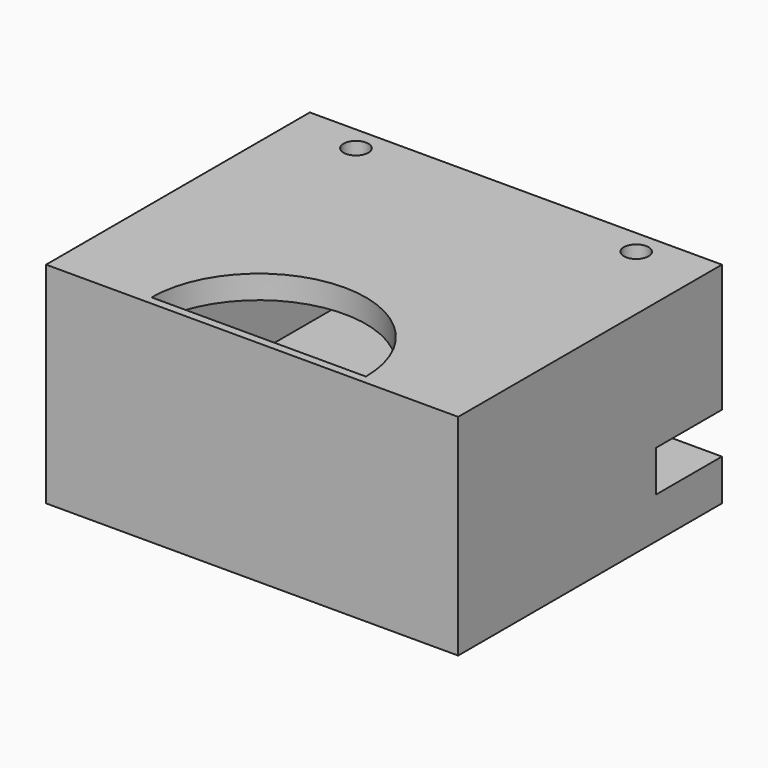
from build123d import *

# Parameters (mm, degrees)
BOX002_W          = 36
BOX002_H          = 16
BOX002_DEPTH      = 41
CYLINDER035_R     = 13
CYLINDER035_DEPTH = 24
CYLINDER003_R     = 1.5
CYLINDER003_DEPTH = 44
CYLINDER002_R     = 1.5
CYLINDER002_DEPTH = 44
PAD009_DEPTH      = 50
SKETCH026_W       = 10
SKETCH026_H       = 27
POCKET006_DEPTH   = 38


with BuildPart() as cubo002:
    # Box002 → Box002 (new body)
    with BuildSketch(Plane(origin=(-19, 1, 45), x_dir=(1, 0, 0), z_dir=(0, 0, 1))):
        with Locations((18, 8)):
            Rectangle(BOX002_W, BOX002_H)
    extrude(amount=BOX002_DEPTH)


with BuildPart() as cut013020:
    # Cylinder035 → Cylinder035 (new body)
    with BuildSketch(Plane(origin=(0, 17, 45), x_dir=(1, 0, 0), z_dir=(0, 0, 1))):
        Circle(CYLINDER035_R)
    extrude(amount=CYLINDER035_DEPTH)

    # Cut013020: cut Cubo002
    add(cubo002.part, mode=Mode.SUBTRACT)


with BuildPart() as cut013020_1:
    # Cut013020 placement: moved
    add(cut013020.part.moved(Location((0, 3, -14))))


with BuildPart() as cilindro003:
    # Cylinder003 → Cylinder003 (new body)
    with BuildSketch(Plane(origin=(17, 63, -20), x_dir=(1, 0, 0), z_dir=(0, 0, 1))):
        Circle(CYLINDER003_R)
    extrude(amount=CYLINDER003_DEPTH)


with BuildPart() as fusion001009:
    # Cylinder002 → Cylinder002 (new body)
    with BuildSketch(Plane(origin=(-17, 63, -22), x_dir=(1, 0, 0), z_dir=(0, 0, 1))):
        Circle(CYLINDER002_R)
    extrude(amount=CYLINDER002_DEPTH)

    # Fusion001009: union Cilindro003
    add(cilindro003.part)


with BuildPart() as fusion001009_1:
    # Fusion001009 placement: moved
    add(fusion001009.part.moved(Location((0, -15, 0))))


with BuildPart() as cut013021:
    # Sketch014 → Pad009 (new body)
    with BuildSketch(Plane.YZ):
        Polygon((-20, -7.5), (-20, 18), (20, 18), (20, 2.5), (10, 2.5), (10, -2.5), (20, -2.5), (20, -7.5), align=None)
    extrude(amount=PAD009_DEPTH)

    # Sketch026 (on Face3 of Pad009) → Pocket006 (cut)
    with BuildSketch(Plane.ZX.offset(20)):
        with Locations((10.160879, 25.010977)):
            Rectangle(SKETCH026_W, SKETCH026_H)
    extrude(amount=-POCKET006_DEPTH, mode=Mode.SUBTRACT)


with BuildPart() as cut013021_1:
    # Body013 placement: moved
    add(cut013021.part.moved(Location((-25, 31, -5))))

    # Cut013018: cut Fusion001009
    add(fusion001009_1.part, mode=Mode.SUBTRACT)


with BuildPart() as cut013021_2:
    # Cut013018 placement: moved
    add(cut013021_1.part.moved(Location((0, 8, 31))))

    # Cut013021: cut Cut013020
    add(cut013020_1.part, mode=Mode.SUBTRACT)


solid = cut013021_2.part
